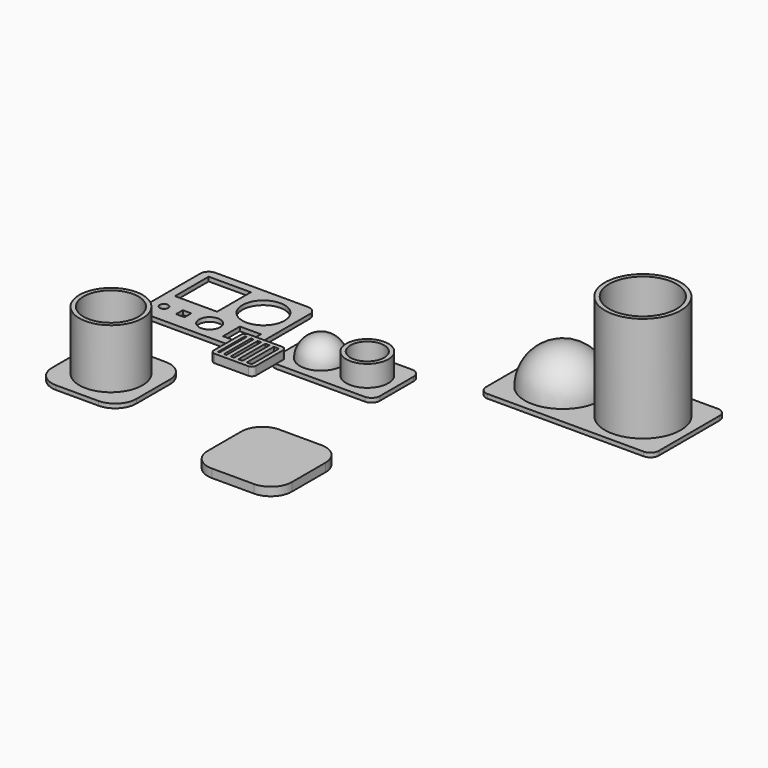
from build123d import *

# Parameters (mm, degrees)
F0_R      = 5
F0_R_2    = 4
F1_DEPTH  = 1
F0_R_3    = 9
F0_R_4    = 8
F2_ANGLE  = 180
F3_DEPTH  = 5
F4_R      = 1
F4_W      = 2
F4_H      = 2
F4_R_2    = 2.5
F4_W_2    = 5
F4_H_2    = 5
F4_W_3    = 10
F4_H_3    = 10
F4_R_3    = 5
F5_DEPTH  = 1
F6_W      = 1
F6_H      = 8.0000001378
F7_DEPTH  = 2
F8_ANGLE  = 180
F9_DEPTH  = 25
F10_R     = 7.5
F11_DEPTH = 1
F10_R_2   = 6.5
F12_DEPTH = 15
F14_DEPTH = 2


with BuildPart() as f1:
    # F0 (on Top) → F1 (new body)
    with BuildSketch(Plane.XY):
        with BuildLine():
            Line((26.0887360853, 15.8778876324), (5.0887360853, 15.8778876324))
            ThreePointArc((5.0887360853, 15.8778876324), (3.6745225229, 15.2921011948), (3.0887360853, 13.8778876324))
            Line((3.0887360853, 13.8778876324), (3.0887360853, 3.8778876324))
            ThreePointArc((3.0887360853, 3.8778876324), (3.6745225229, 2.46367407), (5.0887360853, 1.8778876324))
            Line((5.0887360853, 1.8778876324), (26.0887360853, 1.8778876324))
            ThreePointArc((26.0887360853, 1.8778876324), (27.5029496477, 2.46367407), (28.0887360853, 3.8778876324))
            Line((28.0887360853, 3.8778876324), (28.0887360853, 13.8778876324))
            ThreePointArc((28.0887360853, 13.8778876324), (27.5029496477, 15.2921011948), (26.0887360853, 15.8778876324))
        make_face()
        with BuildLine():
            ThreePointArc((15.0887360853, 8.8778876324), (10.0887360853, 3.8778876324), (5.0887360853, 8.8778876324))
            ThreePointArc((5.0887360853, 8.8778876324), (10.0887360853, 13.8778876324), (15.0887360853, 8.8778876324))
        make_face(mode=Mode.SUBTRACT)
        with Locations((21.0887360853, 8.8778876324)):
            Circle(F0_R, mode=Mode.SUBTRACT)
        with Locations((21.0887360853, 8.8778876324)):
            Circle(F0_R)
        with Locations((21.0887360853, 8.8778876324)):
            Circle(F0_R_2, mode=Mode.SUBTRACT)
        with Locations((21.0887360853, 8.8778876324)):
            Circle(F0_R_2)
        with BuildLine():
            Line((15.0887360853, 8.8778876324), (5.0887360853, 8.8778876324))
            ThreePointArc((5.0887360853, 8.8778876324), (10.0887360853, 3.8778876324), (15.0887360853, 8.8778876324))
        make_face()
        with BuildLine():
            ThreePointArc((15.0887360853, 8.8778876324), (10.0887360853, 13.8778876324), (5.0887360853, 8.8778876324))
            Line((5.0887360853, 8.8778876324), (15.0887360853, 8.8778876324))
        make_face()
    extrude(amount=-F1_DEPTH)

    # F0 (on Top) → F2 (revolve)
    with BuildSketch(Plane.XY):
        with BuildLine():
            ThreePointArc((15.0887360853, 8.8778876324), (10.0887360853, 13.8778876324), (5.0887360853, 8.8778876324))
            Line((5.0887360853, 8.8778876324), (15.0887360853, 8.8778876324))
        make_face()
    revolve(axis=Axis((10.0887360853, 8.8778876324, 0), (1, 0, 0)), revolution_arc=F2_ANGLE)

    # F0 (on Top) → F3 (join)
    with BuildSketch(Plane.XY):
        with Locations((21.0887360853, 8.8778876324)):
            Circle(F0_R)
        with Locations((21.0887360853, 8.8778876324)):
            Circle(F0_R_2, mode=Mode.SUBTRACT)
    extrude(amount=F3_DEPTH)


with BuildPart() as f1b:
    # F0 (on Top) → F1, piece 2 (new body)
    with BuildSketch(Plane.XY):
        with BuildLine():
            Line((80.1695018411, 38.992923528), (43.1695018411, 38.992923528))
            ThreePointArc((43.1695018411, 38.992923528), (41.7552882787, 38.4071370903), (41.1695018411, 36.992923528))
            Line((41.1695018411, 36.992923528), (41.1695018411, 18.992923528))
            ThreePointArc((41.1695018411, 18.992923528), (41.7552882787, 17.5787099656), (43.1695018411, 16.992923528))
            Line((43.1695018411, 16.992923528), (80.1695018411, 16.992923528))
            ThreePointArc((80.1695018411, 16.992923528), (81.5837154034, 17.5787099656), (82.1695018411, 18.992923528))
            Line((82.1695018411, 18.992923528), (82.1695018411, 36.992923528))
            ThreePointArc((82.1695018411, 36.992923528), (81.5837154034, 38.4071370903), (80.1695018411, 38.992923528))
        make_face()
        with BuildLine():
            ThreePointArc((61.1695018411, 27.992923528), (52.1695018411, 18.992923528), (43.1695018411, 27.992923528))
            ThreePointArc((43.1695018411, 27.992923528), (52.1695018411, 36.992923528), (61.1695018411, 27.992923528))
        make_face(mode=Mode.SUBTRACT)
        with Locations((71.1695018411, 27.992923528)):
            Circle(F0_R_3, mode=Mode.SUBTRACT)
        with BuildLine():
            Line((61.1695018411, 27.992923528), (43.1695018411, 27.992923528))
            ThreePointArc((43.1695018411, 27.992923528), (52.1695018411, 18.992923528), (61.1695018411, 27.992923528))
        make_face()
        with BuildLine():
            ThreePointArc((61.1695018411, 27.992923528), (52.1695018411, 36.992923528), (43.1695018411, 27.992923528))
            Line((43.1695018411, 27.992923528), (61.1695018411, 27.992923528))
        make_face()
        with Locations((71.1695018411, 27.992923528)):
            Circle(F0_R_3)
        with Locations((71.1695018411, 27.992923528)):
            Circle(F0_R_4, mode=Mode.SUBTRACT)
        with Locations((71.1695018411, 27.992923528)):
            Circle(F0_R_4)
    extrude(amount=-F1_DEPTH)

    # F0 (on Top) → F8 (revolve)
    with BuildSketch(Plane.XY):
        with BuildLine():
            ThreePointArc((61.1695018411, 27.992923528), (52.1695018411, 36.992923528), (43.1695018411, 27.992923528))
            Line((43.1695018411, 27.992923528), (61.1695018411, 27.992923528))
        make_face()
    revolve(axis=Axis((52.1695018411, 27.992923528, 0), (1, 0, 0)), revolution_arc=F8_ANGLE)

    # F0 (on Top) → F9 (join)
    with BuildSketch(Plane.XY):
        with Locations((71.1695018411, 27.992923528)):
            Circle(F0_R_3)
        with Locations((71.1695018411, 27.992923528)):
            Circle(F0_R_4, mode=Mode.SUBTRACT)
    extrude(amount=F9_DEPTH)


with BuildPart() as f5:
    # F4 (on Top) → F5 (new body)
    with BuildSketch(Plane.XY):
        with BuildLine():
            Line((-3.4021842554, 21.9499961164), (-25.4021842554, 21.9499961164))
            ThreePointArc((-25.4021842554, 21.9499961164), (-26.8163978178, 21.3642096787), (-27.4021842554, 19.9499961164))
            Line((-27.4021842554, 19.9499961164), (-27.4021842554, 2.9499961164))
            ThreePointArc((-27.4021842554, 2.9499961164), (-26.8163978178, 1.535782554), (-25.4021842554, 0.9499961164))
            Line((-25.4021842554, 0.9499961164), (-3.4021842554, 0.9499961164))
            ThreePointArc((-3.4021842554, 0.9499961164), (-1.987970693, 1.535782554), (-1.4021842554, 2.9499961164))
            Line((-1.4021842554, 2.9499961164), (-1.4021842554, 19.9499961164))
            ThreePointArc((-1.4021842554, 19.9499961164), (-1.987970693, 21.3642096787), (-3.4021842554, 21.9499961164))
        make_face()
        with Locations((-24.4021842554, 5.4499961164)):
            Circle(F4_R, mode=Mode.SUBTRACT)
        with Locations((-19.7355175888, 5.4499961164)):
            Rectangle(F4_W, F4_H, mode=Mode.SUBTRACT)
        with Locations((-13.5688509221, 5.4499961164)):
            Circle(F4_R_2, mode=Mode.SUBTRACT)
        with Locations((-5.9021842554, 5.4499961164)):
            Rectangle(F4_W_2, F4_H_2, mode=Mode.SUBTRACT)
        with Locations((-20.4021842554, 14.9499961164)):
            Rectangle(F4_W_3, F4_H_3, mode=Mode.SUBTRACT)
        with Locations((-8.4021842554, 14.9499961164)):
            Circle(F4_R_3, mode=Mode.SUBTRACT)
    extrude(amount=F5_DEPTH)


with BuildPart() as f7:
    # F6 (on Top) → F7 (new body)
    with BuildSketch(Plane.XY):
        with BuildLine():
            ThreePointArc((4.9999999311, 4), (4.7071067123, 4.7071067812), (3.9999999311, 5))
            Line((3.9999999311, 5), (-3.9999999311, 5))
            ThreePointArc((-3.9999999311, 5), (-4.7071067123, 4.7071067812), (-4.9999999311, 4))
            Line((-4.9999999311, 4), (-4.9999999311, -4))
            ThreePointArc((-4.9999999311, -4), (-4.7071067123, -4.7071067812), (-3.9999999311, -5))
            Line((-3.9999999311, -5), (3.9999999311, -5))
            ThreePointArc((3.9999999311, -5), (4.7071067123, -4.7071067812), (4.9999999311, -4))
            Line((4.9999999311, -4), (4.9999999311, 4))
        make_face()
        Polygon((4, 4.0000000689), (4, -4.0000000689), (2.8, -4.0000000689), (1.8, -4.0000000689), (0.8, -4.0000000689), (-0.2, -4.0000000689), (-1, -4.0000000689), (-2, -4.0000000689), (-2.6, -4.0000000689), (-3.6, -4.0000000689), (-4, -4.0000000689), (-4, 4.0000000689), (-3.6, 4.0000000689), (-2.6, 4.0000000689), (-2, 4.0000000689), (-1, 4.0000000689), (-0.2, 4.0000000689), (0.8, 4.0000000689), (1.8, 4.0000000689), (2.8, 4.0000000689), align=None, mode=Mode.SUBTRACT)
        with Locations((-3.1, 0)):
            Rectangle(F6_W, F6_H)
        with Locations((-1.5, 0)):
            Rectangle(F6_W, F6_H)
        with Locations((0.3, 0)):
            Rectangle(F6_W, F6_H)
        with Locations((2.3, 0)):
            Rectangle(F6_W, F6_H)
    extrude(amount=F7_DEPTH)


with BuildPart() as f11:
    # F10 (on Top) → F11 (new body)
    with BuildSketch(Plane.XY):
        with BuildLine():
            Line((-20.2317509055, -31.7340784147), (-10.2317509055, -31.7340784147))
            ThreePointArc((-10.2317509055, -31.7340784147), (-6.6962169996, -30.2696123207), (-5.2317509055, -26.7340784147))
            Line((-5.2317509055, -26.7340784147), (-5.2317509055, -16.7340784147))
            ThreePointArc((-5.2317509055, -16.7340784147), (-6.6962169996, -13.1985445088), (-10.2317509055, -11.7340784147))
            Line((-10.2317509055, -11.7340784147), (-20.2317509055, -11.7340784147))
            ThreePointArc((-20.2317509055, -11.7340784147), (-23.7672848114, -13.1985445088), (-25.2317509055, -16.7340784147))
            Line((-25.2317509055, -16.7340784147), (-25.2317509055, -26.7340784147))
            ThreePointArc((-25.2317509055, -26.7340784147), (-23.7672848114, -30.2696123207), (-20.2317509055, -31.7340784147))
        make_face()
        with Locations((-15.2317509055, -21.7340784147)):
            Circle(F10_R, mode=Mode.SUBTRACT)
    extrude(amount=F11_DEPTH)

    # F10 (on Top) → F12 (join)
    with BuildSketch(Plane.XY):
        with Locations((-15.2317509055, -21.7340784147)):
            Circle(F10_R)
        with Locations((-15.2317509055, -21.7340784147)):
            Circle(F10_R_2, mode=Mode.SUBTRACT)
    extrude(amount=F12_DEPTH)


with BuildPart() as f14:
    # F13 (on Top) → F14 (new body)
    with BuildSketch(Plane.XY):
        with BuildLine():
            Line((34.3232223392, -21.2728772312), (24.3232223392, -21.2728772312))
            ThreePointArc((24.3232223392, -21.2728772312), (20.7876884332, -22.7373433253), (19.3232223392, -26.2728772312))
            Line((19.3232223392, -26.2728772312), (19.3232223392, -36.2728772312))
            ThreePointArc((19.3232223392, -36.2728772312), (20.7876884332, -39.8084111372), (24.3232223392, -41.2728772312))
            Line((24.3232223392, -41.2728772312), (34.3232223392, -41.2728772312))
            ThreePointArc((34.3232223392, -41.2728772312), (37.8587562451, -39.8084111372), (39.3232223392, -36.2728772312))
            Line((39.3232223392, -36.2728772312), (39.3232223392, -26.2728772312))
            ThreePointArc((39.3232223392, -26.2728772312), (37.8587562451, -22.7373433253), (34.3232223392, -21.2728772312))
        make_face()
    extrude(amount=F14_DEPTH)


solid = Compound([f1.part, f1b.part, f5.part, f7.part, f11.part, f14.part])
